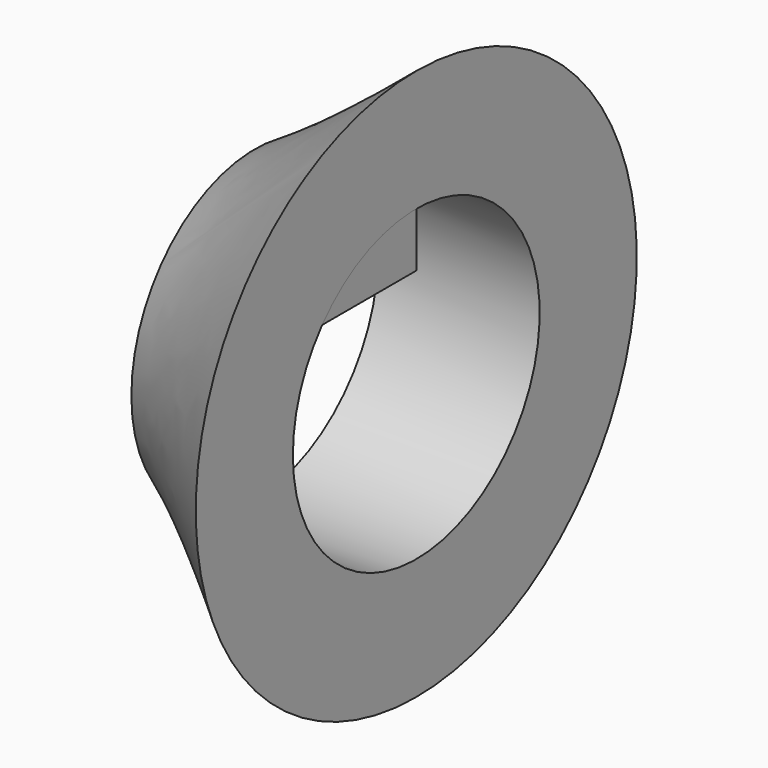
from build123d import *

# Parameters (mm, degrees)
F1_DEPTH = 25.4


with BuildPart() as f1:
    # F0 (on Front) → F1 (new body)
    with BuildSketch(Plane.XZ):
        Polygon((-16.263214, 53.824995), (-29.607564, 41.473199), (-31.534202, 39.689864), (-51.134761, 21.547196), (-16.263214, 21.547196), align=None)
    extrude(amount=F1_DEPTH)


with BuildPart() as f3:
    # F1_face (on face) → F3 (revolve)
    with BuildSketch(Plane(origin=(-27.887063, -25.4, 32.306463), x_dir=(1, 0, 0), z_dir=(0, -1, 0))):
        Polygon((11.623849, 21.518532), (-23.247698, -10.759266), (11.623849, -10.759266), align=None)
    revolve(axis=Axis((2.113082, 0, 0), (-1, 0, 0)))


solid = Compound([f1.part, f3.part])
